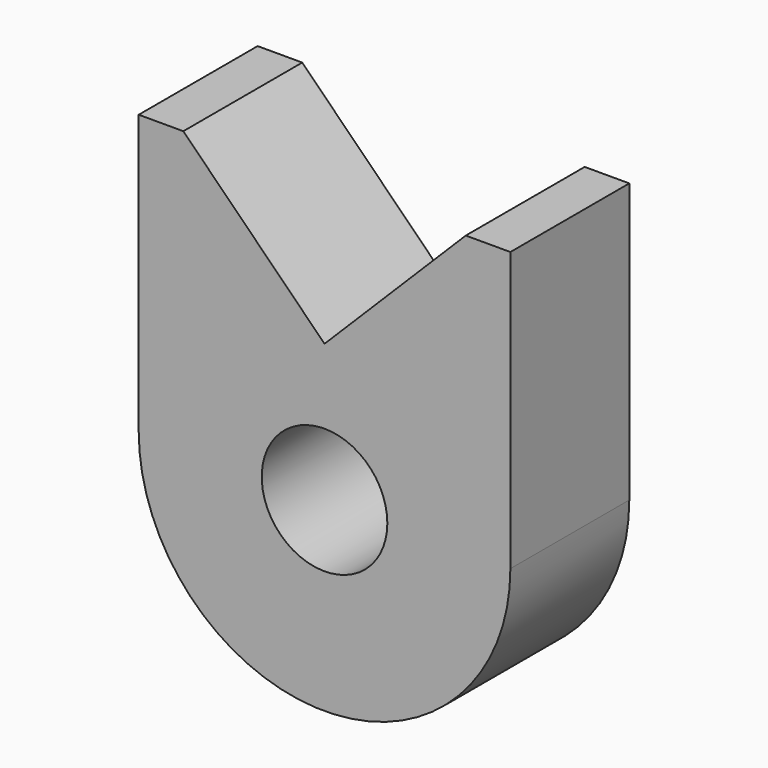
from build123d import *

# Parameters (mm, degrees)
F0_R     = 2.1463
F1_DEPTH = 5.08


with BuildPart() as f1:
    # F0 (on Front) → F1 (new body)
    with BuildSketch(Plane.XZ):
        with BuildLine():
            Line((6.35, -4.7625), (6.35, 4.7625))
            Line((6.35, 4.7625), (4.826, 4.7625))
            Line((4.826, 4.7625), (0, -0.0635))
            Line((0, -0.0635), (-4.826, 4.7625))
            Line((-4.826, 4.7625), (-6.35, 4.7625))
            Line((-6.35, 4.7625), (-6.35, -4.7625))
            ThreePointArc((-6.35, -4.7625), (0, -11.1125), (6.35, -4.7625))
        make_face()
        with Locations((0, -4.7625)):
            Circle(F0_R, mode=Mode.SUBTRACT)
    extrude(amount=F1_DEPTH)


solid = f1.part
